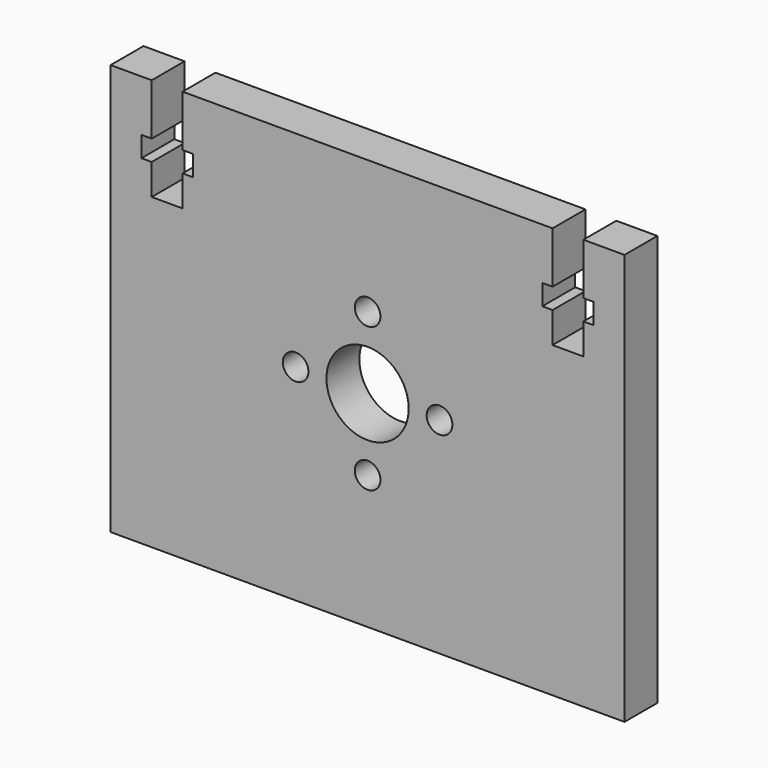
from build123d import *

# Parameters (mm, degrees)
F0_R     = 1.25
F0_R_2   = 4
F1_DEPTH = 4


with BuildPart() as f1:
    # F0 (on Front) → F1 (new body)
    with BuildSketch(Plane.XZ):
        Polygon((-42, 40), (-46, 40), (-46, 0), (4, 0), (4, 35), (4, 40), (0, 40), (0, 35), (1, 35), (1, 33), (0, 33), (0, 30), (-3, 30), (-3, 33), (-4, 33), (-4, 35), (-3, 35), (-3, 40), (-39, 40), (-39, 34.998186), (-38, 34.998186), (-38, 33), (-39, 33), (-39, 30), (-42, 30), (-42, 33), (-43, 33), (-43, 34.998186), (-42, 34.998186), align=None)
        with Locations((-20.996485, 13)):
            Circle(F0_R, mode=Mode.SUBTRACT)
        with Locations((-28, 20)):
            Circle(F0_R, mode=Mode.SUBTRACT)
        with Locations((-21, 20)):
            Circle(F0_R_2, mode=Mode.SUBTRACT)
        with Locations((-14, 20)):
            Circle(F0_R, mode=Mode.SUBTRACT)
        with Locations((-20.992745, 27)):
            Circle(F0_R, mode=Mode.SUBTRACT)
    extrude(amount=F1_DEPTH)


solid = f1.part
